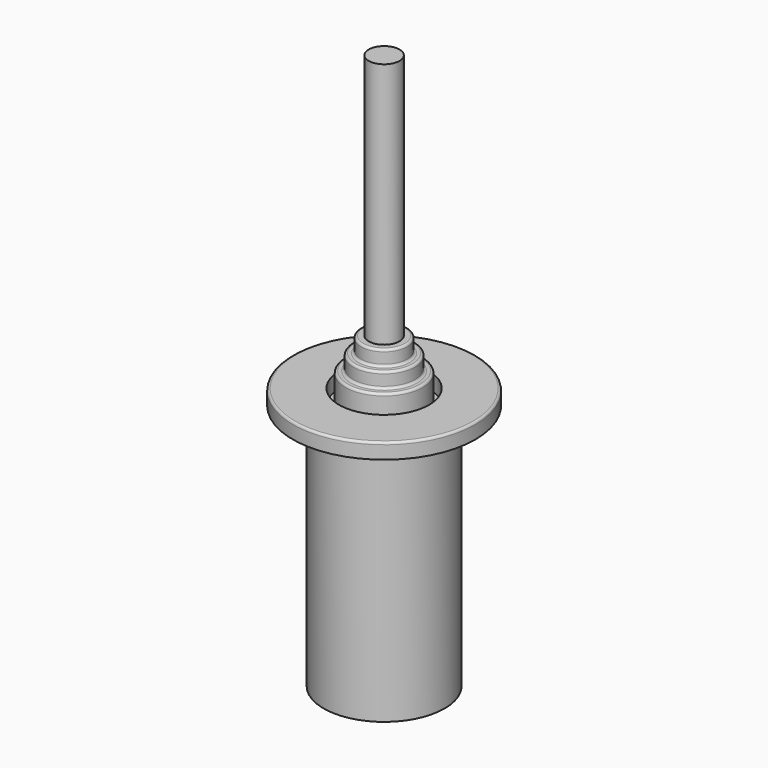
from build123d import *


with BuildPart() as f1:
    # F0 (on Front) → F1 (revolve)
    with BuildSketch(Plane.XZ):
        with BuildLine():
            Line((7.9375, 0), (0, 0))
            Line((0, 0), (0, -50.8))
            Line((0, -50.8), (12.446, -50.8))
            Line((12.446, -50.8), (12.446, 0))
            Line((12.446, 0), (18.796, 0))
            Line((18.796, 0), (18.796, 2.70256))
            ThreePointArc((18.796, 2.70256), (18.657626, 3.036626), (18.32356, 3.175))
            Line((18.32356, 3.175), (9.271, 3.175))
            Line((9.271, 3.175), (9.271, 0))
            Line((9.271, 0), (7.9375, 0))
        make_face()
        with BuildLine():
            Line((0, 63.5), (0, 0))
            Line((0, 0), (7.9375, 0))
            Line((7.9375, 0), (7.9375, 5.87756))
            ThreePointArc((7.9375, 5.87756), (7.799126, 6.211626), (7.46506, 6.35))
            Line((7.46506, 6.35), (6.82244, 6.35))
            ThreePointArc((6.82244, 6.35), (6.488374, 6.488374), (6.35, 6.82244))
            Line((6.35, 6.82244), (6.35, 9.05256))
            ThreePointArc((6.35, 9.05256), (6.211626, 9.386626), (5.87756, 9.525))
            Line((5.87756, 9.525), (5.23494, 9.525))
            ThreePointArc((5.23494, 9.525), (4.900874, 9.663374), (4.7625, 9.99744))
            Line((4.7625, 9.99744), (4.7625, 12.22756))
            ThreePointArc((4.7625, 12.22756), (4.624126, 12.561626), (4.29006, 12.7))
            Line((4.29006, 12.7), (3.175, 12.7))
            Line((3.175, 12.7), (3.175, 63.5))
            Line((3.175, 63.5), (0, 63.5))
        make_face()
    revolve(axis=Axis((0, 0, 6.323627), (0, 0, -1)))


solid = f1.part
